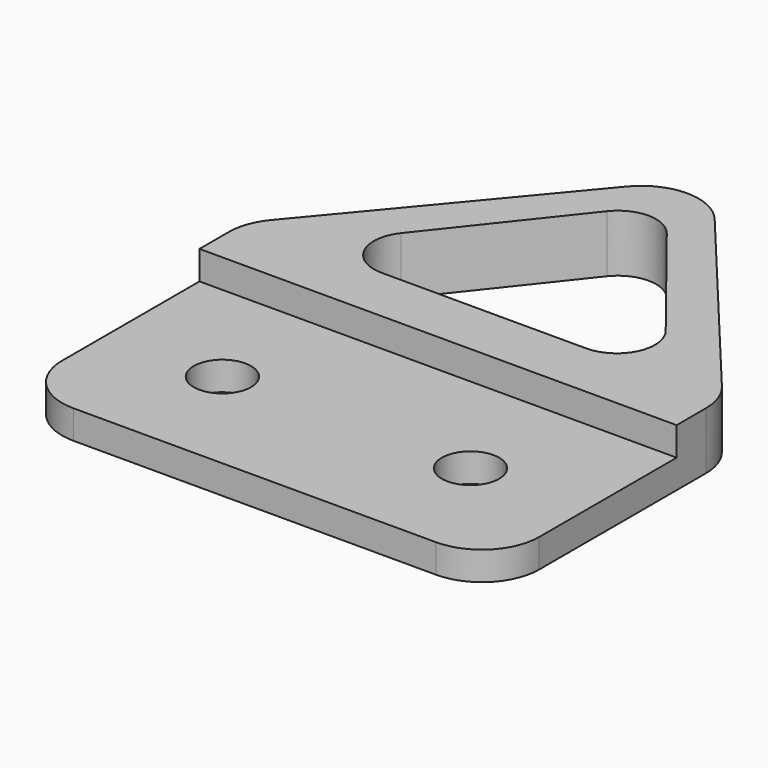
from build123d import *

# Parameters (mm, degrees)
SKETCH003_R      = 1.5
EXTRUDE003_DEPTH = 1.5
EXTRUDE002_DEPTH = 3
SKETCH001_W      = 25
SKETCH001_H      = 12
EXTRUDE001_DEPTH = 1.5
EXTRUDE_DEPTH    = 3
FILLET_R         = 2
FILLET001_R      = 3
FILLET002_R      = 3


with BuildPart() as extrude003:
    # Sketch003 (on Face18 of Fillet002) → Extrude003 (new body)
    with BuildSketch(Plane.XY.offset(1.5)):
        with Locations((-6.5, 1)):
            Circle(SKETCH003_R)
        with Locations((6.5, 1)):
            Circle(SKETCH003_R)
    extrude(amount=-EXTRUDE003_DEPTH)


with BuildPart() as extrude002:
    # Sketch002 (on Face8 of Cut) → Extrude002 (new body)
    with BuildSketch(Plane.XY.offset(3)):
        Polygon((0, 22), (-9.5, 10), (9.5, 10), align=None)
    extrude(amount=-EXTRUDE002_DEPTH)


with BuildPart() as extrude001:
    # Sketch001 (on Face7 of Extrude) → Extrude001 (new body)
    with BuildSketch(Plane.XY.offset(3)):
        with Locations((0, 1)):
            Rectangle(SKETCH001_W, SKETCH001_H)
    extrude(amount=-EXTRUDE001_DEPTH)


with BuildPart() as cut002:
    # Sketch → Extrude (new body)
    with BuildSketch(Plane.XY):
        Polygon((-12.5, -5), (12.5, -5), (12.5, 10), (0, 25), (-12.5, 10), align=None)
    extrude(amount=EXTRUDE_DEPTH)

    # Cut: cut Extrude001
    add(extrude001.part, mode=Mode.SUBTRACT)

    # Cut001: cut Extrude002
    add(extrude002.part, mode=Mode.SUBTRACT)

    # Fillet
    fillet_edges = [cut002.edges().sort_by_distance(p)[0] for p in [
        (0, 22, 1.5),
        (-9.5, 10, 1.5),
        (9.5, 10, 1.5),
    ]]
    fillet(fillet_edges, radius=FILLET_R)

    # Fillet001
    fillet001_edges = [cut002.edges().sort_by_distance(p)[0] for p in [
        (-12.5, 10, 1.5),
        (12.5, 10, 1.5),
        (0, 25, 1.5),
    ]]
    fillet(fillet001_edges, radius=FILLET001_R)

    # Fillet002
    fillet002_edges = [cut002.edges().sort_by_distance(p)[0] for p in [
        (12.5, -5, 0.75),
        (-12.5, -5, 0.75),
    ]]
    fillet(fillet002_edges, radius=FILLET002_R)

    # Cut002: cut Extrude003
    add(extrude003.part, mode=Mode.SUBTRACT)


solid = cut002.part
